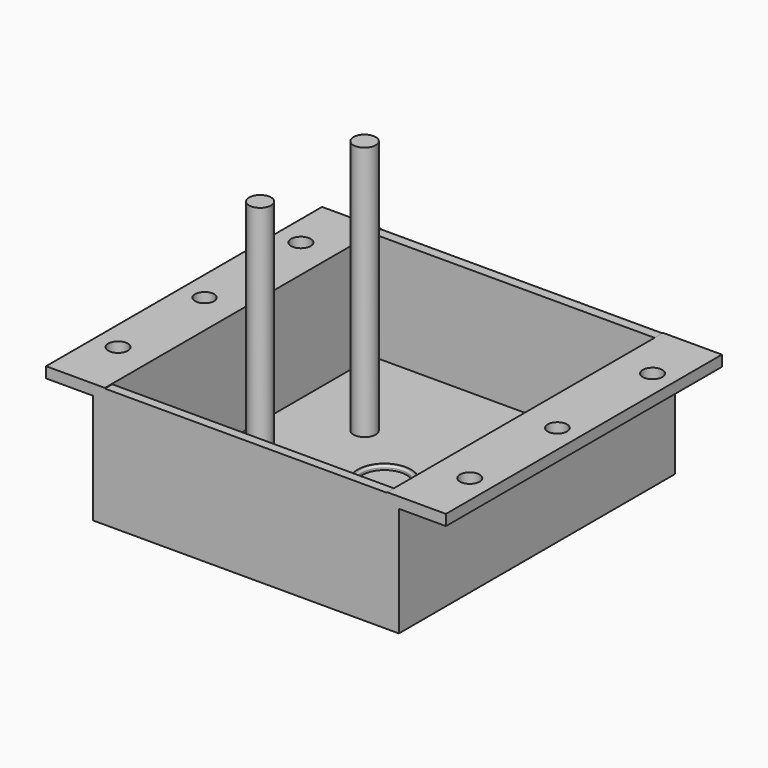
from build123d import *

# Parameters (mm, degrees)
F1_DEPTH  = 44
F2_R      = 2.5
F2_R_2    = 2.4725548282
F2_R_3    = 2.4274448112
F3_DEPTH  = 2.748386896
F4_W      = 71.9977971367
F4_H      = 2.4901034832
F4_H_2    = 2.3662897348
F5_DEPTH  = 27.6
F6_R      = 6.9199657135
F7_DEPTH  = 1
F8_R      = 5.6269381347
F9_DEPTH  = 1
F10_R     = 0.5
F11_R     = 2.8344980175
F11_R_2   = 2.7859463521
F12_DEPTH = 65


with BuildPart() as f1:
    # F0 (on Front) → F1 (new body, symmetric)
    with BuildSketch(Plane.XZ):
        Polygon((33.0240737289, -6.6249261405), (-2.9748248395, -6.6249261405), (-2.9748248395, -9.6249261405), (36.0251751605, -9.6249261405), (36.0251751605, 18.3750738595), (48.0240737289, 18.3750738595), (48.0240737289, 21.1234607555), (33.0240737289, 21.1234607555), align=None)
        Polygon((-2.9748248395, -9.6249261405), (-2.9748248395, -6.6249261405), (-38.9737234078, -6.6249261405), (-38.9737234078, 21.1234607555), (-53.9737234078, 21.1234607555), (-53.9737234078, 18.3750738595), (-41.9748248395, 18.3750738595), (-41.9748248395, -9.6249261405), align=None)
    extrude(amount=F1_DEPTH, both=True)

    # F2 (on face) → F3 (cut, through all)
    with BuildSketch(Plane.XY.offset(21.1234607555)):
        with Locations((42.0833444824, -28.976779955)):
            Circle(F2_R)
        with Locations((42.3100408995, 29.0223339752)):
            Circle(F2_R)
        with Locations((-47.6874827498, 29.3740999725)):
            Circle(F2_R)
        with Locations((-47.9141791668, -28.6250139577)):
            Circle(F2_R)
        with Locations((42.192016639, -1.1735668668)):
            Circle(F2_R_2)
        with Locations((-47.8068819294, -1.1735668668)):
            Circle(F2_R_3)
    extrude(amount=-F3_DEPTH, mode=Mode.SUBTRACT)

    # F4 (on face) → F5 (join)
    with BuildSketch(Plane.XY.offset(-6.6249261405)):
        with Locations((-2.9748248395, 42.7549482584)):
            Rectangle(F4_W, F4_H)
        with Locations((-2.9748248395, -42.8168551326)):
            Rectangle(F4_W, F4_H_2)
    extrude(amount=F5_DEPTH)

    # F6 (on face) → F7 (join)
    with BuildSketch(Plane.XY.offset(-6.6249261405)):
        with Locations((-3.1422167085, 0.3347826132)):
            Circle(F6_R)
    extrude(amount=F7_DEPTH)

    # F8 (on face) → F9 (cut)
    with BuildSketch(Plane.XY.offset(-5.6249261405)):
        with Locations((-3.1422167085, 0.3347826132)):
            Circle(F8_R)
    extrude(amount=-F9_DEPTH, mode=Mode.SUBTRACT)

    # F10
    f10_edges = [f1.edges().sort_by_distance(p)[0] for p in [
        (-10.062182, 0.334783, -5.624926),
        (-8.769155, 0.334783, -5.624926),
    ]]
    fillet(f10_edges, radius=F10_R)

    # F11 (on face) → F12 (join)
    with BuildSketch(Plane.XY.offset(-6.6249261405)):
        with Locations((-20.3835200518, 15.5673911795)):
            Circle(F11_R)
        with Locations((-20.3835200518, -17.7434775978)):
            Circle(F11_R_2)
    extrude(amount=F12_DEPTH)


solid = f1.part
